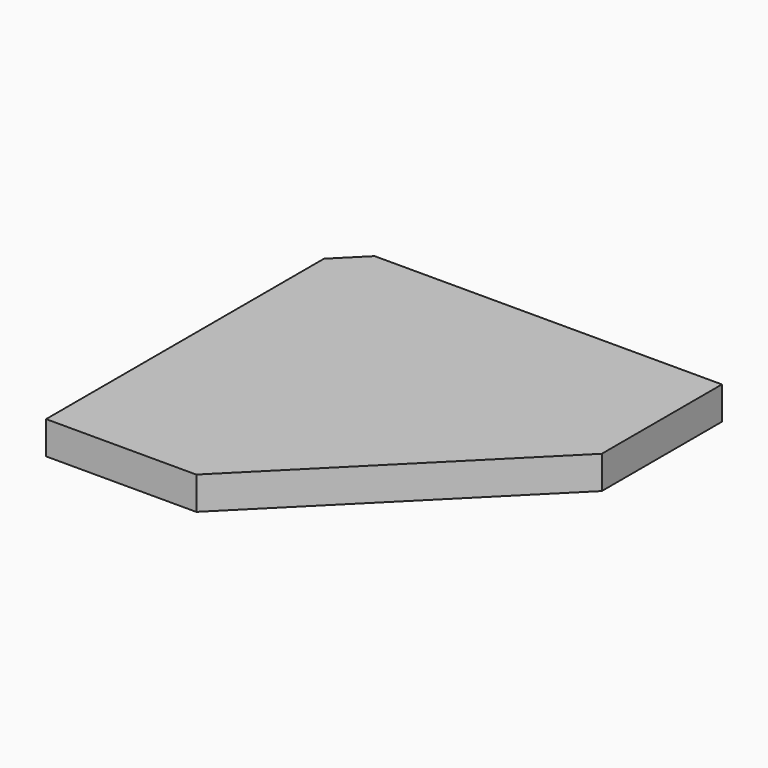
from build123d import *

# Parameters (mm, degrees)
F1_DEPTH = 88.9
F2_DEPTH = 19.05
F3_R     = 39.6875
F4_DEPTH = 7.62


with BuildPart() as f1:
    # F0 (on Top) → F1 (new body)
    with BuildSketch(Plane.XY):
        Polygon((0, -76.2), (0, -1016), (406.4, -1016), (1016, -406.4), (1016, 0), (76.2, 0), align=None)
        Polygon((398.509232, -996.95), (19.05, -996.95), (19.05, -84.090768), (84.090768, -19.05), (996.95, -19.05), (996.95, -398.509232), align=None, mode=Mode.SUBTRACT)
    extrude(amount=-F1_DEPTH)

    # F0 (on Top) → F2 (join)
    with BuildSketch(Plane.XY):
        Polygon((19.05, -84.090768), (19.05, -996.95), (398.509232, -996.95), (996.95, -398.509232), (996.95, -19.05), (84.090768, -19.05), align=None)
    extrude(amount=-F2_DEPTH)

    # F3 (on face) → F4 (join)
    with BuildSketch(Plane(origin=(0, 0, -19.05), x_dir=(1, 0, 0), z_dir=(0, 0, -1))):
        with Locations((76.2, 939.8)):
            Circle(F3_R)
        with Locations((91.981537, 91.981537)):
            Circle(F3_R)
        with Locations((374.836927, 939.8)):
            Circle(F3_R)
        with Locations((939.8, 374.836927)):
            Circle(F3_R)
        with Locations((939.8, 76.2)):
            Circle(F3_R)
    extrude(amount=F4_DEPTH)


solid = f1.part
